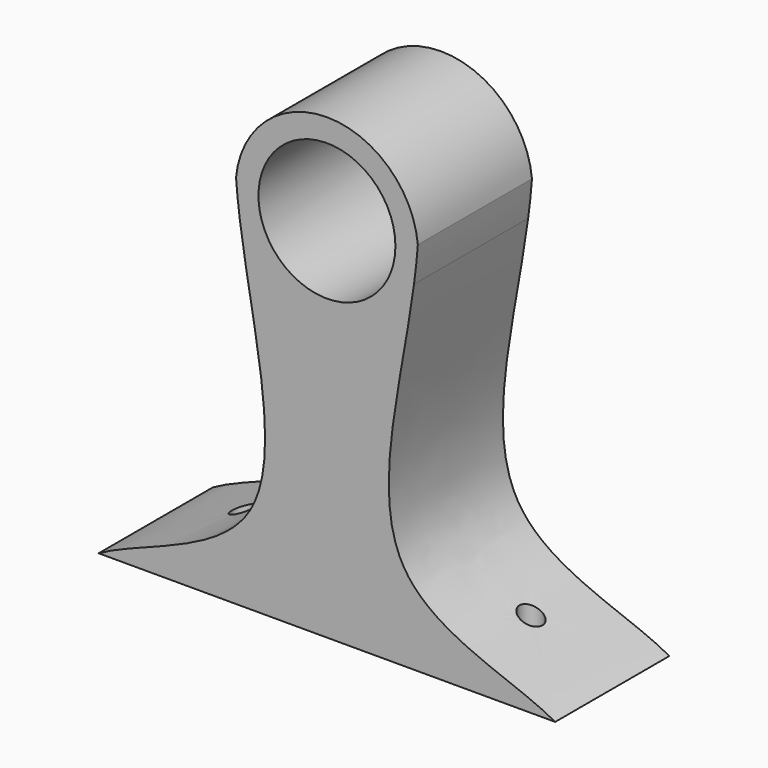
from build123d import *

# Parameters (mm, degrees)
F0_R     = 12
F1_DEPTH = 25
F2_R     = 2
F3_DEPTH = 62.5


with BuildPart() as f1:
    # F0 (on Front) → F1 (new body)
    with BuildSketch(Plane.XZ):
        with BuildLine():
            add(Edge.make_bspline(
                [(15.2574428175, 59.4707756558), (13.011943595, 42.7387344513), (2.790454913, 9.2617114261), (32.852853083, 4.1214281812), (40, 0)],
                knots=[0.0637341717, 0.0637341717, 0.0637341717, 0.0637341717, 0.5637575646, 1, 1, 1, 1], degree=3))
            ThreePointArc((15.2574428175, 59.4707756558), (0, 48.2884969711), (-15.2574428175, 59.4707756558))
            add(Edge.make_bspline(
                [(-15.2574428175, 59.4707756558), (-13.011943595, 42.7387344513), (-2.790454913, 9.2617114261), (-32.852853083, 4.1214281812), (-40, 0)],
                knots=[0.0637341717, 0.0637341717, 0.0637341717, 0.0637341717, 0.5637575646, 1, 1, 1, 1], degree=3))
            Line((-40, 0), (0, 0))
            Line((0, 0), (40, 0))
        make_face()
        with BuildLine():
            add(Edge.make_bspline(
                [(15.9290236562, 65.7938890667), (15.7776691095, 63.7175564989), (15.5436594923, 61.6034814477), (15.2574428175, 59.4707756558)],
                knots=[0, 0, 0, 0, 0.0637341717, 0.0637341717, 0.0637341717, 0.0637341717], degree=3))
            ThreePointArc((15.9290236562, 65.7938890667), (0, 80.2884969711), (-15.9290236562, 65.7938890667))
            add(Edge.make_bspline(
                [(-15.9290236562, 65.7938890667), (-15.7776691095, 63.7175564989), (-15.5436594923, 61.6034814476), (-15.2574428175, 59.4707756558)],
                knots=[0, 0, 0, 0, 0.0637341717, 0.0637341717, 0.0637341717, 0.0637341717], degree=3))
            ThreePointArc((-15.2574428175, 59.4707756558), (0, 48.2884969711), (15.2574428175, 59.4707756558))
        make_face()
        with Locations((0, 64.2884969711)):
            Circle(F0_R, mode=Mode.SUBTRACT)
    extrude(amount=F1_DEPTH)

    # F2 (on Top) → F3 (cut)
    with BuildSketch(Plane.XY):
        with Locations((25.2222406023, -11.8355397135)):
            Circle(F2_R)
        with Locations((-25.2222406023, -11.8355397135)):
            Circle(F2_R)
    extrude(amount=F3_DEPTH, mode=Mode.SUBTRACT)


solid = f1.part
